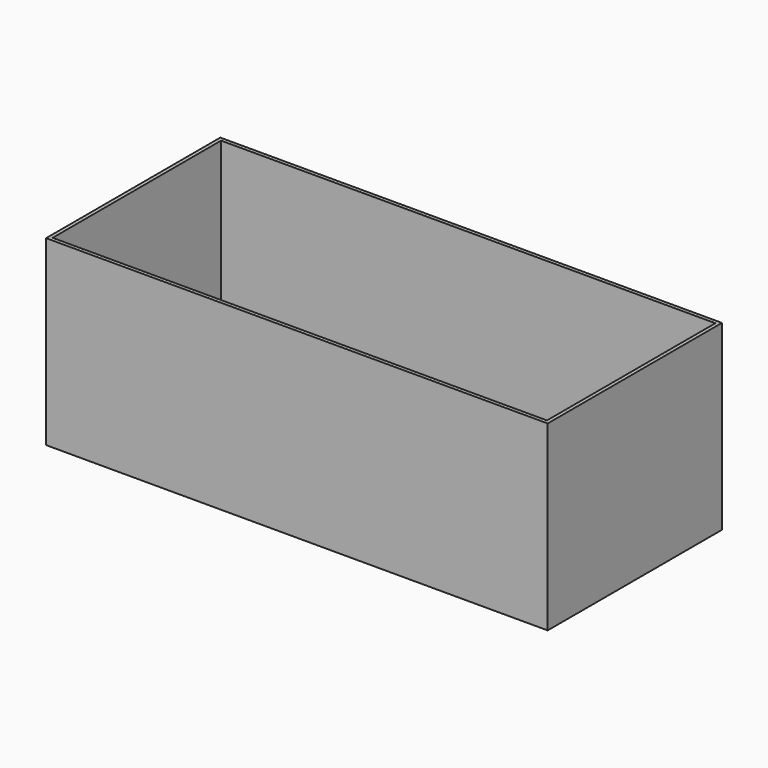
from build123d import *

# Parameters (mm, degrees)
F0_W     = 90.9334234893
F0_H     = 50.9791802615
F1_DEPTH = 300
F2_DEPTH = 600
F3_DEPTH = 200
F4_T     = -5


with BuildPart() as f1:
    # F0 (on Front) → F1 (new body)
    with BuildSketch(Plane.XZ):
        with Locations((2.5382172316, -42.5791377202)):
            Rectangle(F0_W, F0_H)
    extrude(amount=F1_DEPTH)

    # F2 (add): a face of the model
    f2_faces = [f1.faces().sort_by_distance(p)[0] for p in [
        (-42.928494513, -150, -42.5791377202),
    ]]
    extrude(f2_faces, amount=F2_DEPTH)

    # F3 (add): a face of the model
    f3_faces = [f1.faces().sort_by_distance(p)[0] for p in [
        (-297.4617827684, -150, -17.0895475894),
    ]]
    extrude(f3_faces, amount=F3_DEPTH)

    # F4
    f4_openings = [f1.faces().sort_by_distance(p)[0] for p in [
        (-297.461783, -150, 182.910452),
    ]]
    offset(amount=F4_T, openings=f4_openings)


solid = f1.part
